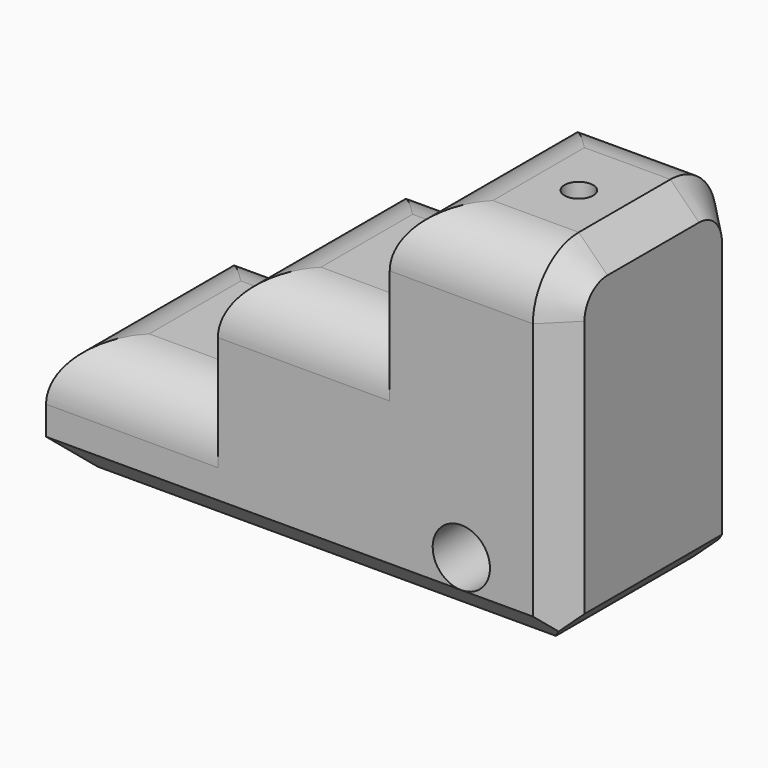
from build123d import *

# Parameters (mm, degrees)
F1_DEPTH  = 400
F2_R      = 100
F3_R      = 100
F4_R      = 100
F5_SIZE   = 50
F6_SIZE   = 50
F7_R      = 50
F8_DEPTH  = 25.4
F8_FACE_R = 50
F9_DEPTH  = 425.401
F10_R     = 25
F11_DEPTH = 600.001


with BuildPart() as f1:
    # F0 (on Front) → F1 (new body)
    with BuildSketch(Plane.XZ):
        Polygon((-480.112339, 99.865262), (-480.112339, -100.134738), (419.887661, -100.134738), (419.887661, 499.865262), (119.887661, 499.865262), (119.887661, 299.865262), (-180.112339, 299.865262), (-180.112339, 99.865262), align=None)
    extrude(amount=F1_DEPTH)

    # F2
    f2_edges = [f1.edges().sort_by_distance(p)[0] for p in [
        (-330.112339, 0, 99.865262),
        (-330.112339, -400, 99.865262),
        (-480.112339, -200, 99.865262),
    ]]
    fillet(f2_edges, radius=F2_R)

    # F3
    f3_edges = [f1.edges().sort_by_distance(p)[0] for p in [
        (-30.112339, 0, 299.865262),
        (-180.112339, -200, 299.865262),
        (-30.112339, -400, 299.865262),
    ]]
    fillet(f3_edges, radius=F3_R)

    # F4
    f4_edges = [f1.edges().sort_by_distance(p)[0] for p in [
        (269.887661, 0, 499.865262),
        (119.887661, -200, 499.865262),
        (269.887661, -400, 499.865262),
    ]]
    fillet(f4_edges, radius=F4_R)

    # F5
    f5_edges = [f1.edges().sort_by_distance(p)[0] for p in [
        (419.887661, -400, 149.865262),
        (419.887661, -200, -100.134738),
    ]]
    chamfer(f5_edges, length=F5_SIZE)

    # F6
    f6_edges = [f1.edges().sort_by_distance(p)[0] for p in [
        (-55.112339, -400, -100.134738),
        (-480.112339, -200, -100.134738),
        (-55.112339, 0, -100.134738),
    ]]
    chamfer(f6_edges, length=F6_SIZE)

    # F7 (on face) → F8 (join)
    with BuildSketch(Plane.XZ.offset(400)):
        with Locations((244.887661, -0.134738)):
            Circle(F7_R)
    extrude(amount=F8_DEPTH)

    # F8_face (on face) → F9 (cut, through all)
    with BuildSketch(Plane(origin=(244.887661, -425.4, -0.134738), x_dir=(1, 0, 0), z_dir=(0, -1, 0))):
        Circle(F8_FACE_R)
    extrude(amount=-F9_DEPTH, mode=Mode.SUBTRACT)

    # F10 (on face) → F11 (cut, through all)
    with BuildSketch(Plane.XY.offset(499.865262)):
        with Locations((292.502016, -203.040093)):
            Circle(F10_R)
        with Locations((15.382883, -205.770329)):
            Circle(F10_R)
        with Locations((-283.578157, -200.309843)):
            Circle(F10_R)
    extrude(amount=-F11_DEPTH, mode=Mode.SUBTRACT)


solid = f1.part
